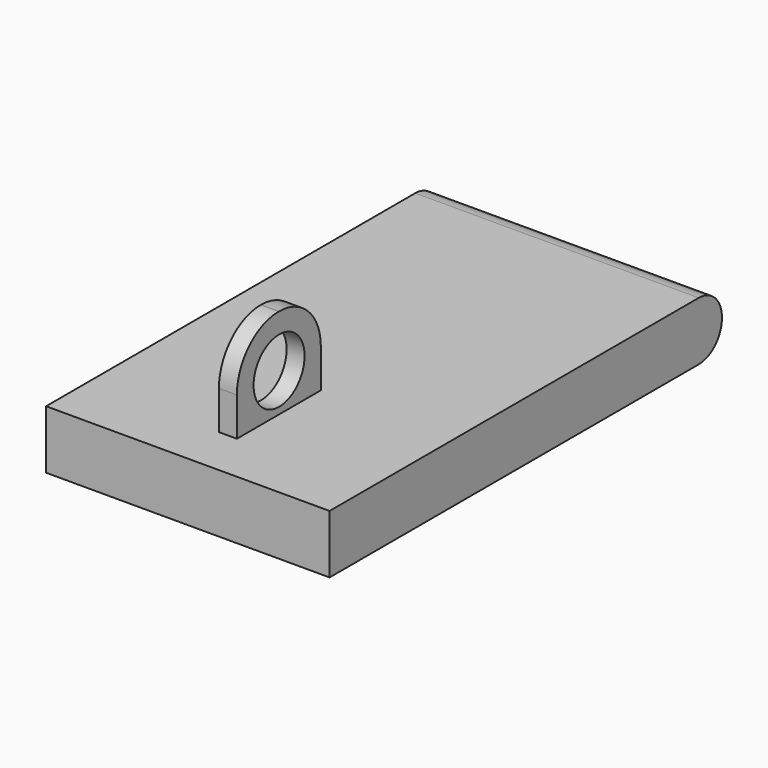
from build123d import *

# Parameters (mm, degrees)
F0_W     = 3.1
F0_H     = 18.1
F1_DEPTH = 25.75
F0_W_2   = 48.9
F0_H_2   = 84.6
F2_DEPTH = 10.1
F3_R     = 5
F4_R     = 9
F5_R     = 5.499402
F6_DEPTH = 26.001
F7_R     = 2.5
F7_W     = 37
F7_H     = 33.5
F8_DEPTH = 7.5


with BuildPart() as f1:
    # F0 (on Top) → F1 (new body)
    with BuildSketch(Plane.XY):
        with Locations((23.972543, 18.115168)):
            Rectangle(F0_W, F0_H)
    extrude(amount=F1_DEPTH)

    # F0 (on Top) → F2 (join)
    with BuildSketch(Plane.XY):
        with Locations((23.972543, 42.723387)):
            Rectangle(F0_W_2, F0_H_2)
        with Locations((23.972543, 18.115168)):
            Rectangle(F0_W, F0_H, mode=Mode.SUBTRACT)
    extrude(amount=F2_DEPTH)

    # F3
    f3_edges = [f1.edges().sort_by_distance(p)[0] for p in [
        (23.972543, 85.023387, 10.1),
        (23.972543, 85.023387, 0),
    ]]
    fillet(f3_edges, radius=F3_R)

    # F4
    f4_edges = [f1.edges().sort_by_distance(p)[0] for p in [
        (23.972543, 9.065168, 25.75),
        (23.972543, 27.165168, 25.75),
    ]]
    fillet(f4_edges, radius=F4_R)

    # F5 (on face) → F6 (cut, through all)
    with BuildSketch(Plane.YZ.offset(25.522543)):
        with Locations((18.165168, 16.75)):
            Circle(F5_R)
    extrude(amount=-F6_DEPTH, mode=Mode.SUBTRACT)

    # F7 (on face) → F8 (cut)
    with BuildSketch(Plane.XY):
        with Locations((23.972543, 73.70657)):
            Circle(F7_R)
        with Locations((35.972543, 20.70657)):
            Circle(F7_R)
        with Locations((11.972543, 20.70657)):
            Circle(F7_R)
        with Locations((23.972543, 50.95657)):
            Rectangle(F7_W, F7_H)
    extrude(amount=F8_DEPTH, mode=Mode.SUBTRACT)


solid = f1.part
